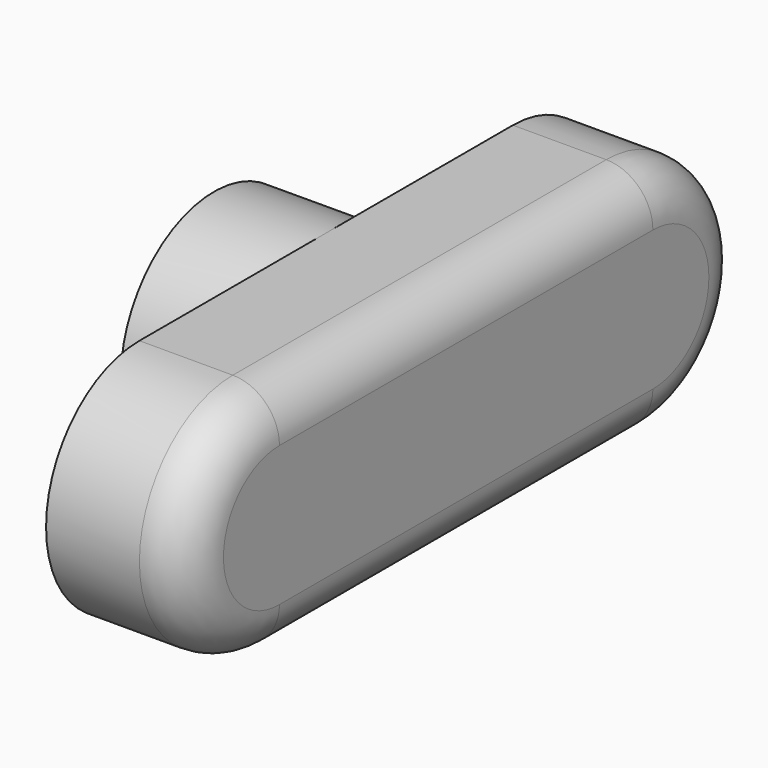
from build123d import *

# Parameters (mm, degrees)
F1_DEPTH = 0.75
F2_R     = 0.5
F3_R     = 1.25
F4_DEPTH = 1.2


with BuildPart() as f1:
    # F0 (on Right) → F1 (new body, symmetric)
    with BuildSketch(Plane.YZ):
        with BuildLine():
            Line((2.5, 1.25), (-2.5, 1.25))
            ThreePointArc((-2.5, 1.25), (-3.75, 0), (-2.5, -1.25))
            Line((-2.5, -1.25), (2.5, -1.25))
            ThreePointArc((2.5, -1.25), (3.75, 0), (2.5, 1.25))
        make_face()
    extrude(amount=F1_DEPTH, both=True)

    # F2
    f2_edges = [f1.edges().sort_by_distance(p)[0] for p in [
        (0.75, 0, 1.25),
        (0.75, -3.75, 0),
        (0.75, 0, -1.25),
        (0.75, 3.75, 0),
    ]]
    fillet(f2_edges, radius=F2_R)

    # F3 (on face) → F4 (join)
    with BuildSketch(Plane(origin=(-0.75, 0, 0), x_dir=(0, -1, 0), z_dir=(-1, 0, 0))):
        Circle(F3_R)
    extrude(amount=F4_DEPTH)


solid = f1.part
